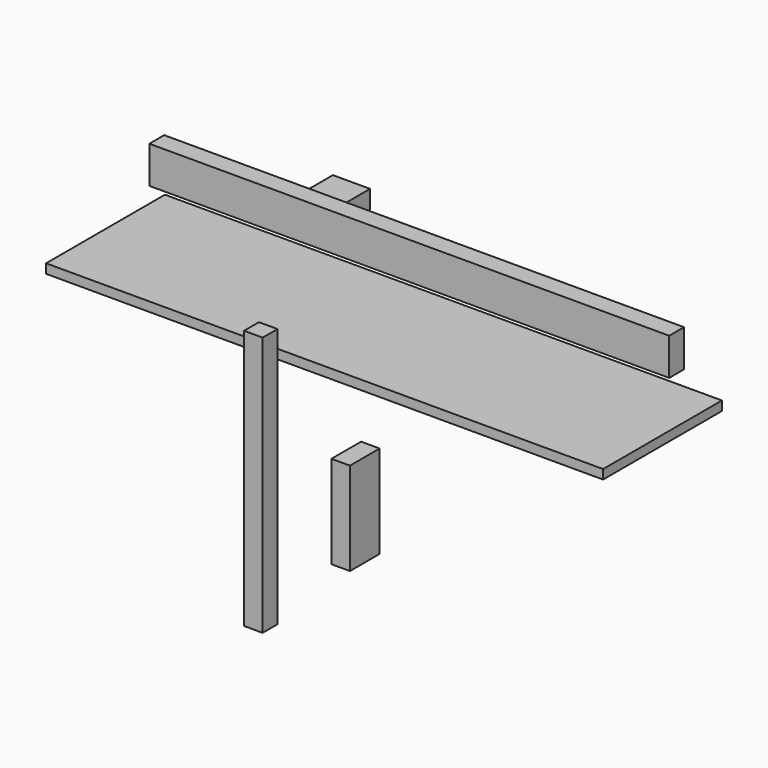
from build123d import *

# Parameters (mm, degrees)
F0_W     = 1524
F0_H     = 406.4
F1_DEPTH = 25.4
F2_W     = 101.6
F2_H     = 203.2
F3_DEPTH = 50.8
F4_W     = 50.8
F4_H     = 711.2
F4_W_2   = 101.6
F4_H_2   = 254
F5_DEPTH = 50.8
F6_W     = 50.8
F6_H     = 101.6
F7_DEPTH = 711.2


with BuildPart() as f1:
    # F0 (on Top) → F1 (new body)
    with BuildSketch(Plane.XY):
        with Locations((-131.757494, -63.944715)):
            Rectangle(F0_W, F0_H)
    extrude(amount=F1_DEPTH)


with BuildPart() as f3:
    # F2 (on Top) → F3 (new body)
    with BuildSketch(Plane.XY):
        with Locations((-588.744583, 294.512703)):
            Rectangle(F2_W, F2_H)
    extrude(amount=F3_DEPTH)


with BuildPart() as f5:
    # F4 (on Right) → F5 (new body)
    with BuildSketch(Plane.YZ):
        with Locations((-681.820492, -23.147151)):
            Rectangle(F4_W, F4_H)
        with Locations((-357.771367, -224.309423)):
            Rectangle(F4_W_2, F4_H_2)
    extrude(amount=F5_DEPTH)


with BuildPart() as f7:
    # F6 (on Right) → F7 (new body, symmetric)
    with BuildSketch(Plane.YZ):
        with Locations((-116.806961, 271.211348)):
            Rectangle(F6_W, F6_H)
    extrude(amount=F7_DEPTH, both=True)


solid = Compound([f1.part, f3.part, f5.part, f7.part])
